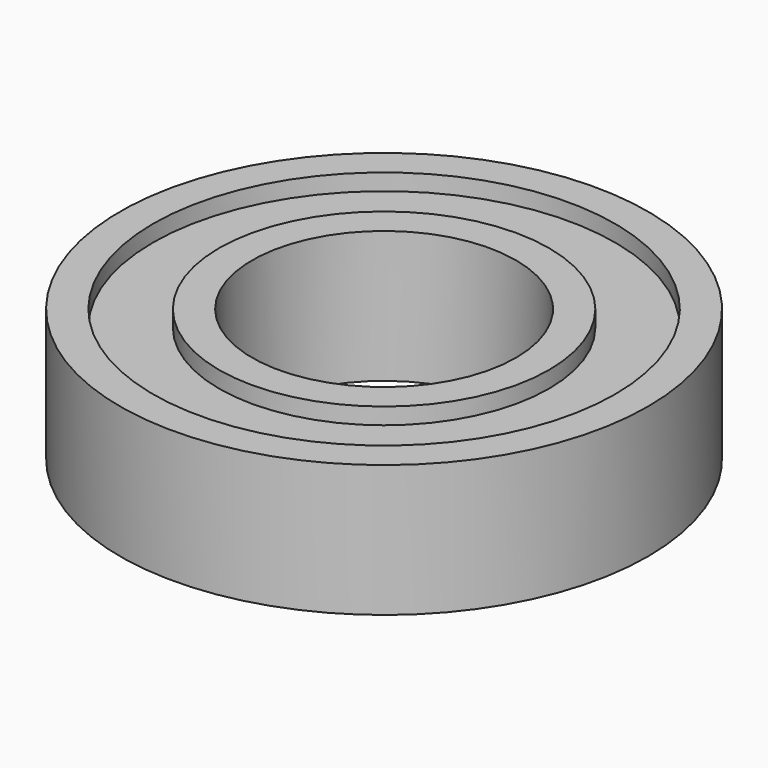
from build123d import *

# Parameters (mm, degrees)
SKETCH016_R     = 8
SKETCH016_R_2   = 4
PAD009_DEPTH    = 4
SKETCH017_R     = 7
SKETCH017_R_2   = 5
POCKET008_DEPTH = 0.5
SKETCH018_R     = 20
SKETCH018_R_2   = 16
POCKET009_DEPTH = 0.5


with BuildPart() as part:
    # Sketch016 → Pad009 (new body)
    with BuildSketch(Plane.XY):
        Circle(SKETCH016_R)
        Circle(SKETCH016_R_2, mode=Mode.SUBTRACT)
    extrude(amount=PAD009_DEPTH)

    # Sketch017 → Pocket008 (cut)
    with BuildSketch(Plane.XY.offset(4)):
        Circle(SKETCH017_R)
        Circle(SKETCH017_R_2, mode=Mode.SUBTRACT)
    extrude(amount=-POCKET008_DEPTH, mode=Mode.SUBTRACT)

    # Sketch018 → Pocket009 (cut)
    with BuildSketch(Plane.XY):
        Circle(SKETCH018_R)
        Circle(SKETCH018_R_2, mode=Mode.SUBTRACT)
    extrude(amount=POCKET009_DEPTH, mode=Mode.SUBTRACT)


solid = part.part
